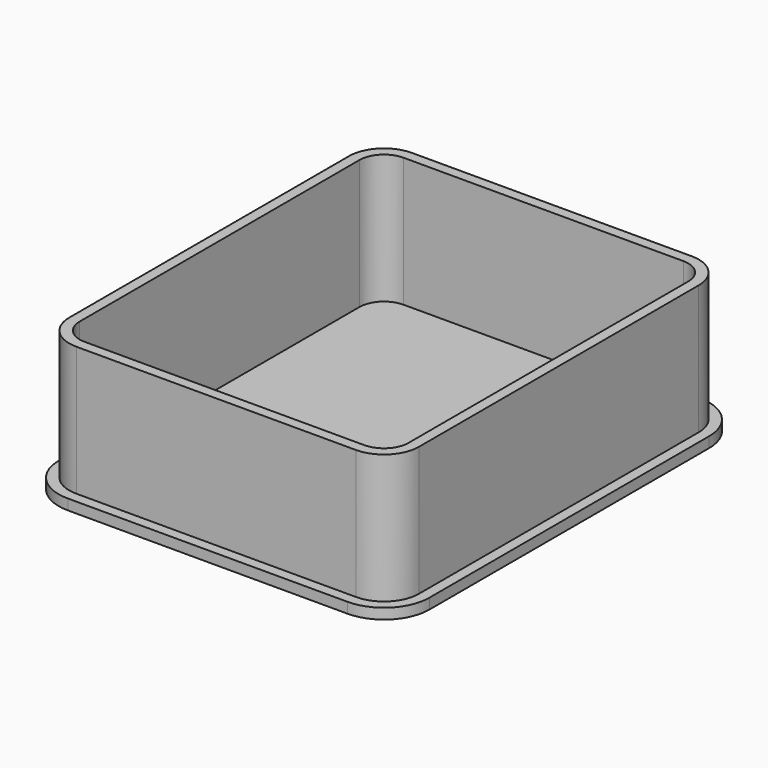
from build123d import *

# Parameters (mm, degrees)
F1_DEPTH = 1.5
F2_DEPTH = 20


with BuildPart() as f1:
    # F0 (on Top) → F1 (new body)
    with BuildSketch(Plane.XY):
        with BuildLine():
            ThreePointArc((-19.49504, 31.5), (-24.091234, 29.596194), (-25.99504, 25))
            Line((-25.99504, 25), (-25.99504, -25))
            ThreePointArc((-25.99504, -25), (-24.091234, -29.596194), (-19.49504, -31.5))
            Line((-19.49504, -31.5), (20.50496, -31.5))
            ThreePointArc((20.50496, -31.5), (25.101155, -29.596194), (27.00496, -25))
            Line((27.00496, -25), (27.00496, 25))
            ThreePointArc((27.00496, 25), (25.101155, 29.596194), (20.50496, 31.5))
            Line((20.50496, 31.5), (-19.49504, 31.5))
        make_face()
        with BuildLine():
            Line((-19.49504, 30), (20.50496, 30))
            ThreePointArc((20.50496, 30), (24.040494, 28.535534), (25.50496, 25))
            Line((25.50496, 25), (25.50496, -25))
            ThreePointArc((25.50496, -25), (24.040494, -28.535534), (20.50496, -30))
            Line((20.50496, -30), (-19.49504, -30))
            ThreePointArc((-19.49504, -30), (-23.030573, -28.535534), (-24.49504, -25))
            Line((-24.49504, -25), (-24.49504, 25))
            ThreePointArc((-24.49504, 25), (-23.030573, 28.535534), (-19.49504, 30))
        make_face(mode=Mode.SUBTRACT)
        with BuildLine():
            ThreePointArc((25.50496, 25), (24.040494, 28.535534), (20.50496, 30))
            Line((20.50496, 30), (-19.49504, 30))
            ThreePointArc((-19.49504, 30), (-23.030573, 28.535534), (-24.49504, 25))
            Line((-24.49504, 25), (-24.49504, -25))
            ThreePointArc((-24.49504, -25), (-23.030573, -28.535534), (-19.49504, -30))
            Line((-19.49504, -30), (20.50496, -30))
            ThreePointArc((20.50496, -30), (24.040494, -28.535534), (25.50496, -25))
            Line((25.50496, -25), (25.50496, 25))
        make_face()
        with BuildLine():
            ThreePointArc((20.50496, 28.5), (22.979834, 27.474874), (24.00496, 25))
            Line((24.00496, 25), (24.00496, -25))
            ThreePointArc((24.00496, -25), (22.979834, -27.474874), (20.50496, -28.5))
            Line((20.50496, -28.5), (-19.49504, -28.5))
            ThreePointArc((-19.49504, -28.5), (-21.969913, -27.474874), (-22.99504, -25))
            Line((-22.99504, -25), (-22.99504, 25))
            ThreePointArc((-22.99504, 25), (-21.969913, 27.474874), (-19.49504, 28.5))
            Line((-19.49504, 28.5), (20.50496, 28.5))
        make_face(mode=Mode.SUBTRACT)
        with BuildLine():
            Line((24.00496, -25), (24.00496, 25))
            ThreePointArc((24.00496, 25), (22.979834, 27.474874), (20.50496, 28.5))
            Line((20.50496, 28.5), (-19.49504, 28.5))
            ThreePointArc((-19.49504, 28.5), (-21.969913, 27.474874), (-22.99504, 25))
            Line((-22.99504, 25), (-22.99504, -25))
            ThreePointArc((-22.99504, -25), (-21.969913, -27.474874), (-19.49504, -28.5))
            Line((-19.49504, -28.5), (20.50496, -28.5))
            ThreePointArc((20.50496, -28.5), (22.979834, -27.474874), (24.00496, -25))
        make_face()
    extrude(amount=F1_DEPTH)

    # F0 (on Top) → F2 (join)
    with BuildSketch(Plane.XY):
        with BuildLine():
            ThreePointArc((25.50496, 25), (24.040494, 28.535534), (20.50496, 30))
            Line((20.50496, 30), (-19.49504, 30))
            ThreePointArc((-19.49504, 30), (-23.030573, 28.535534), (-24.49504, 25))
            Line((-24.49504, 25), (-24.49504, -25))
            ThreePointArc((-24.49504, -25), (-23.030573, -28.535534), (-19.49504, -30))
            Line((-19.49504, -30), (20.50496, -30))
            ThreePointArc((20.50496, -30), (24.040494, -28.535534), (25.50496, -25))
            Line((25.50496, -25), (25.50496, 25))
        make_face()
        with BuildLine():
            ThreePointArc((20.50496, 28.5), (22.979834, 27.474874), (24.00496, 25))
            Line((24.00496, 25), (24.00496, -25))
            ThreePointArc((24.00496, -25), (22.979834, -27.474874), (20.50496, -28.5))
            Line((20.50496, -28.5), (-19.49504, -28.5))
            ThreePointArc((-19.49504, -28.5), (-21.969913, -27.474874), (-22.99504, -25))
            Line((-22.99504, -25), (-22.99504, 25))
            ThreePointArc((-22.99504, 25), (-21.969913, 27.474874), (-19.49504, 28.5))
            Line((-19.49504, 28.5), (20.50496, 28.5))
        make_face(mode=Mode.SUBTRACT)
    extrude(amount=F2_DEPTH)


solid = f1.part
